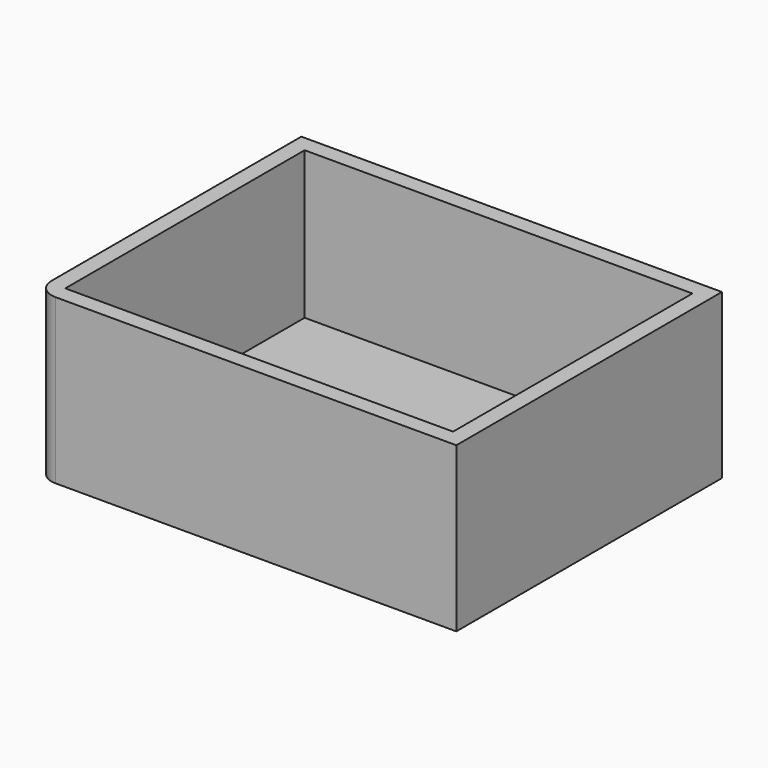
from build123d import *

# Parameters (mm, degrees)
F0_W     = 65.18887
F0_H     = 51.452216
F1_DEPTH = 25.4
F2_T     = -25.4
F3_T     = -2.54
F4_R     = 3.066051


with BuildPart() as f1:
    # F0 (on Top) → F1 (new body)
    with BuildSketch(Plane.XY):
        with Locations((32.594435, 25.726108)):
            Rectangle(F0_W, F0_H)
    extrude(amount=F1_DEPTH)

    # F2
    f2_openings = [f1.faces().sort_by_distance(p)[0] for p in [
        (32.594435, 25.726108, 25.4),
    ]]
    offset(amount=F2_T, openings=f2_openings)

    # F3
    f3_openings = [f1.faces().sort_by_distance(p)[0] for p in [
        (32.594435, 25.726108, 25.4),
    ]]
    offset(amount=F3_T, openings=f3_openings)

    # F4
    f4_edges = [f1.edges().sort_by_distance(p)[0] for p in [
        (0, 0, 12.7),
    ]]
    fillet(f4_edges, radius=F4_R)


solid = f1.part
